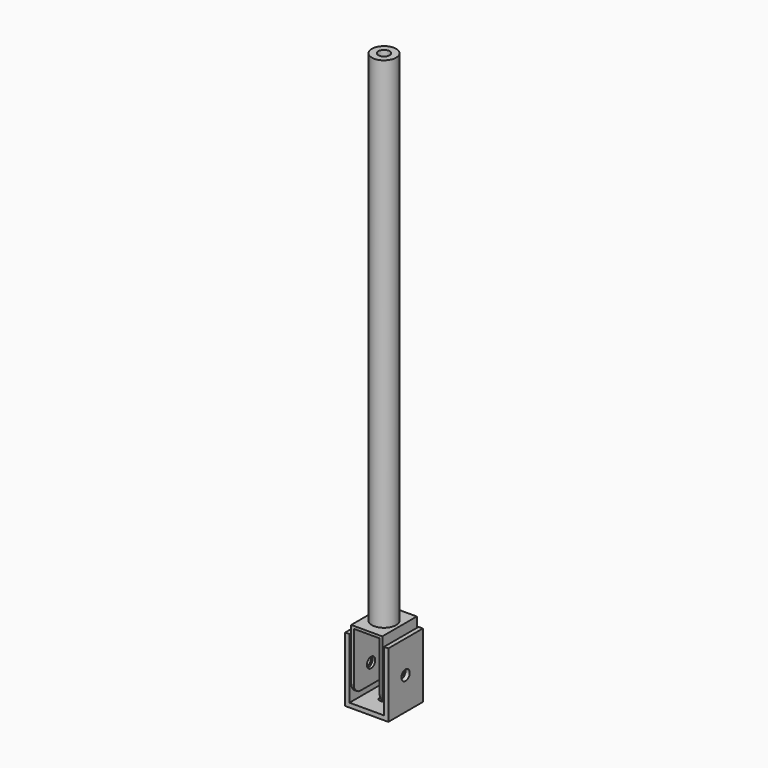
from build123d import *

# Parameters (mm, degrees)
F1_DEPTH  = 50
F2_R      = 5
F3_DEPTH  = 25
F4_R      = 6
F5_DEPTH  = 50
F6_W      = 3
F6_H      = 67
F6_H_2    = 3
F6_W_2    = 30
F7_DEPTH  = 50
F8_R      = 6
F9_DEPTH  = 36
F10_R     = 14
F11_DEPTH = 5
F13_W     = 7.5
F13_H     = 579
F15_R     = 10


with BuildPart() as f1:
    # F0 (on Front) → F1 (new body)
    with BuildSketch(Plane.XZ):
        Polygon((40, 0), (0, 0), (0, 70), (-5, 70), (-5, -5), (45, -5), (45, 70), (40, 70), align=None)
    extrude(amount=F1_DEPTH)

    # F2 (on face) → F3 (cut)
    with BuildSketch(Plane(origin=(0, 0, -5), x_dir=(1, 0, 0), z_dir=(0, 0, -1))):
        with Locations((20, 25)):
            Circle(F2_R)
    extrude(amount=-F3_DEPTH, mode=Mode.SUBTRACT)

    # F4 (on face) → F5 (cut)
    with BuildSketch(Plane(origin=(-5, 0, 0), x_dir=(0, -1, 0), z_dir=(-1, 0, 0))):
        with Locations((25, 32.5)):
            Circle(F4_R)
    extrude(amount=-F5_DEPTH, mode=Mode.SUBTRACT)


with BuildPart() as f7:
    # F6 (on Front) → F7 (new body)
    with BuildSketch(Plane.XZ):
        with Locations((3.5, 43.5)):
            Rectangle(F6_W, F6_H)
        with Locations((3.5, 78.5)):
            Rectangle(F6_W, F6_H_2)
        with Locations((20, 78.5)):
            Rectangle(F6_W_2, F6_H_2)
        with Locations((36.5, 78.5)):
            Rectangle(F6_W, F6_H_2)
        with Locations((36.5, 43.5)):
            Rectangle(F6_W, F6_H)
    extrude(amount=F7_DEPTH)

    # F8 (on face) → F9 (cut)
    with BuildSketch(Plane.YZ.offset(38)):
        with Locations((-25, 32.5)):
            Circle(F8_R)
    extrude(amount=-F9_DEPTH, mode=Mode.SUBTRACT)

    # F10 (on face) → F11 (cut)
    with BuildSketch(Plane.XY.offset(80)):
        with Locations((20, -25)):
            Circle(F10_R)
    extrude(amount=-F11_DEPTH, mode=Mode.SUBTRACT)

    # F15
    f15_edges = [f7.edges().sort_by_distance(p)[0] for p in [
        (36.5, -50, 10),
        (3.5, -50, 10),
        (36.5, 0, 10),
        (3.5, 0, 10),
    ]]
    fillet(f15_edges, radius=F15_R)


with BuildPart() as f14:
    # F13 (on offset) → F14 (revolve)
    with BuildSketch(Plane.YZ.offset(20)):
        with Locations((-35.25, 369.5)):
            Rectangle(F13_W, F13_H)
    revolve(axis=Axis((20, -25, 369.5), (0, 0, 1)))


solid = Compound([f1.part, f7.part, f14.part])
